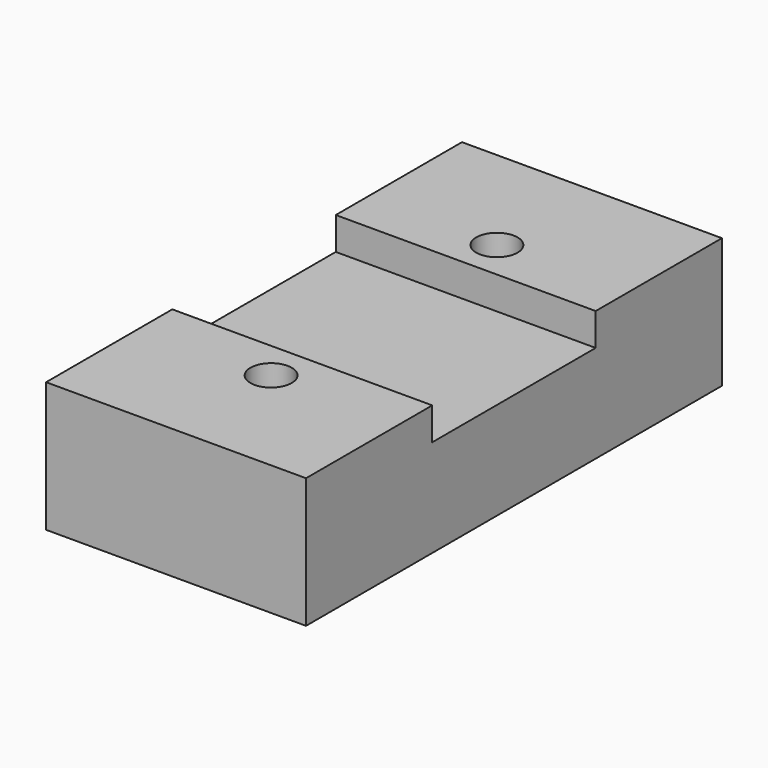
from build123d import *

# Parameters (mm, degrees)
F0_W     = 25.4
F0_H     = 50.8
F1_DEPTH = 12.7
F2_W     = 25.4
F2_H     = 19.9644
F3_DEPTH = 3.175
F5_D     = 4.0386


with BuildPart() as f1:
    # F0 (on Top) → F1 (new body)
    with BuildSketch(Plane.XY):
        Rectangle(F0_W, F0_H)
    extrude(amount=F1_DEPTH)

    # F2 (on face) → F3 (cut)
    with BuildSketch(Plane.XY.offset(12.7)):
        Rectangle(F2_W, F2_H)
    extrude(amount=-F3_DEPTH, mode=Mode.SUBTRACT)

    # F5 (through all)
    with Locations(Plane.XY.offset(12.7)):
        with Locations((0, 13.7922), (0, -13.7922)):
            Hole(F5_D / 2)


solid = f1.part
